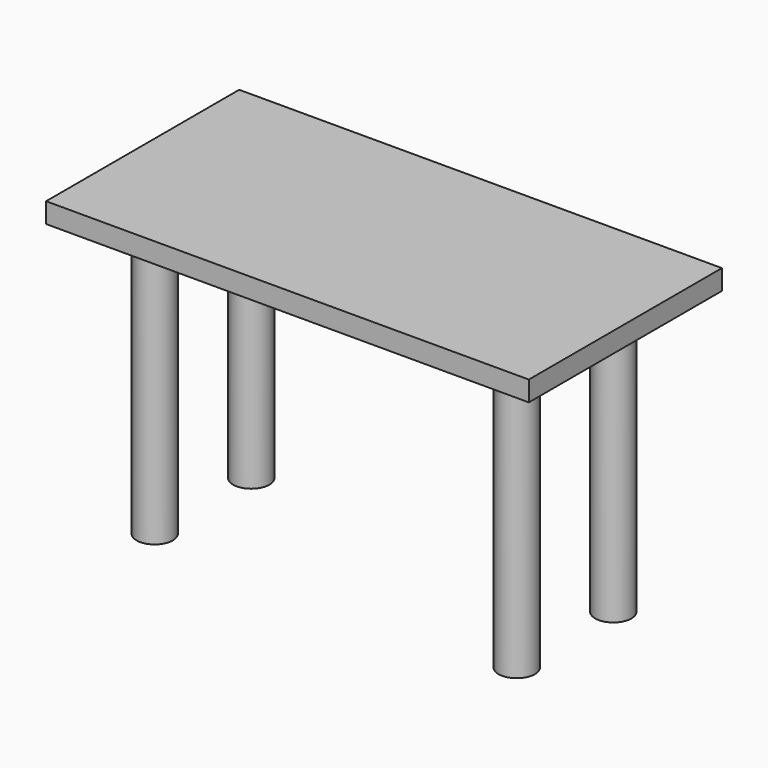
from build123d import *

# Parameters (mm, degrees)
CYLINDER001_R             = 1.5
CYLINDER001_DEPTH         = 23
ARRAY002_X_COUNT          = 2
ARRAY002_X_PITCH          = 10
ARRAY002_Y_COUNT          = 2
ARRAY002_Y_PITCH          = 30
BOX015_W                  = 20
BOX015_H                  = 40
BOX015_DEPTH              = 1.66667
FUSION004_PLACEMENT_ANGLE = 90


with BuildPart() as obj1:
    # Cylinder001 → Cylinder001 (new body)
    with BuildSketch(Plane(origin=(70, 112.5, 0), x_dir=(1, 0, 0), z_dir=(0, 0, 1))):
        Circle(CYLINDER001_R)
    extrude(amount=CYLINDER001_DEPTH)

    # Array002 X: obj1_2


with BuildPart() as obj1_1:
    add(obj1.part)
    with Locations(*[(i * ARRAY002_X_PITCH, 0, 0) for i in range(1, ARRAY002_X_COUNT)]):
        add(obj1.part)

    # Array002 Y: obj1_2


with BuildPart() as obj1_2:
    add(obj1_1.part)
    with Locations(*[(0, i * ARRAY002_Y_PITCH, 0) for i in range(1, ARRAY002_Y_COUNT)]):
        add(obj1_1.part)


with BuildPart() as obj2:
    # Box015 → Box015 (new body)
    with BuildSketch(Plane(origin=(65, 107.5, 23), x_dir=(1, 0, 0), z_dir=(0, 0, 1))):
        with Locations((10, 20)):
            Rectangle(BOX015_W, BOX015_H)
    extrude(amount=BOX015_DEPTH)

    # Fusion004: union obj1
    add(obj1_2.part)


with BuildPart() as obj2_1:
    # Fusion004 placement: moved
    add(obj2.part.moved(Location((210, 0, 97))).rotate(Axis((210, 0, 97), (0, 0, 1)), FUSION004_PLACEMENT_ANGLE))


solid = obj2_1.part
